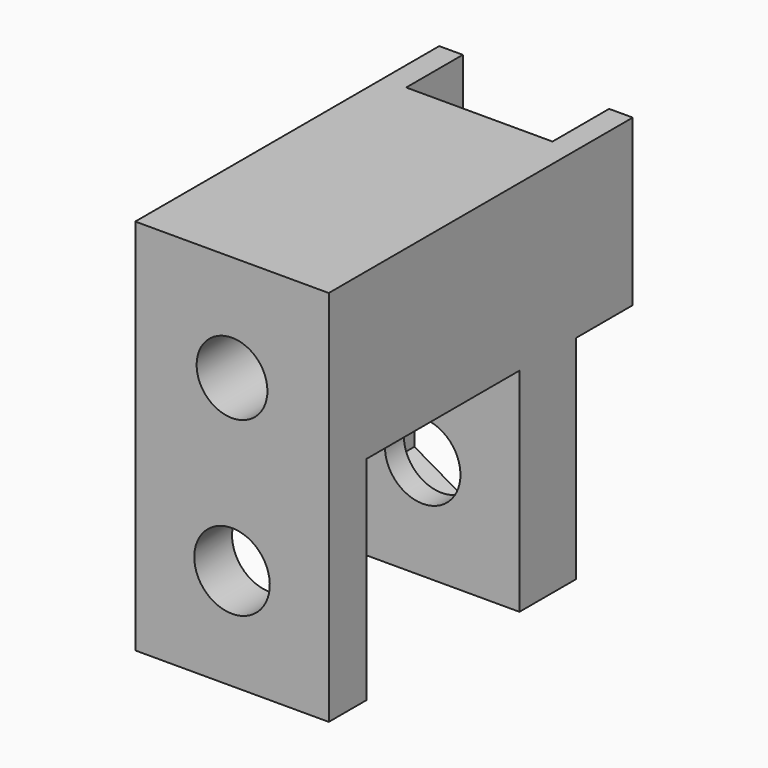
from build123d import *

# Parameters (mm, degrees)
PAD_DEPTH       = 4.1
SKETCH002_R     = 1.5
SKETCH002_R_2   = 1.6
POCKET_DEPTH    = 16.101
SKETCH003_W     = 7
SKETCH003_H     = 6.2
POCKET001_DEPTH = 3
POCKET002_DEPTH = 16.101
POCKET003_DEPTH = 2


with BuildPart() as part:
    # Sketch → Pad (new body, symmetric)
    with BuildSketch(Plane.YZ):
        Polygon((-10.1, -9), (-10.1, 7), (6, 7), (6, 0), (3, 0), (3, -9), (0, -9), (0, 0), (-8.1, 0), (-8.1, -9), align=None)
    extrude(amount=PAD_DEPTH, both=True)

    # Sketch002 (on Face1 of Pad) → Pocket (cut, through all)
    with BuildSketch(Plane(origin=(0, -10.1, 0), x_dir=(0, 0, -1), z_dir=(0, -1, 0))):
        with Locations((-2.5, 0)):
            Circle(SKETCH002_R)
        with Locations((4.7, 0)):
            Circle(SKETCH002_R_2)
    extrude(amount=-POCKET_DEPTH, mode=Mode.SUBTRACT)

    # Sketch003 (on Face9 of Pocket) → Pocket001 (cut)
    with BuildSketch(Plane.ZX.offset(6)):
        with Locations((3.5, 0)):
            Rectangle(SKETCH003_W, SKETCH003_H)
    extrude(amount=-POCKET001_DEPTH, mode=Mode.SUBTRACT)

    # Sketch002 (on Face1 of Pad) → Pocket002 (cut, through all)
    with BuildSketch(Plane(origin=(0, -10.1, 0), x_dir=(0, 0, -1), z_dir=(0, -1, 0))):
        with Locations((-2.5, 0)):
            Circle(SKETCH002_R)
        with Locations((4.7, 0)):
            Circle(SKETCH002_R_2)
    extrude(amount=-POCKET002_DEPTH, mode=Mode.SUBTRACT)

    # Sketch004 (on Face19 of Pocket001) → Pocket003 (cut)
    with BuildSketch(Plane.ZX.offset(3)):
        Polygon((-7.875426, 0), (-6.287713, -2.75), (-3.112287, -2.75), (-1.524574, 0), (-3.112287, 2.75), (-6.287713, 2.75), align=None)
    extrude(amount=-POCKET003_DEPTH, mode=Mode.SUBTRACT)


solid = part.part
